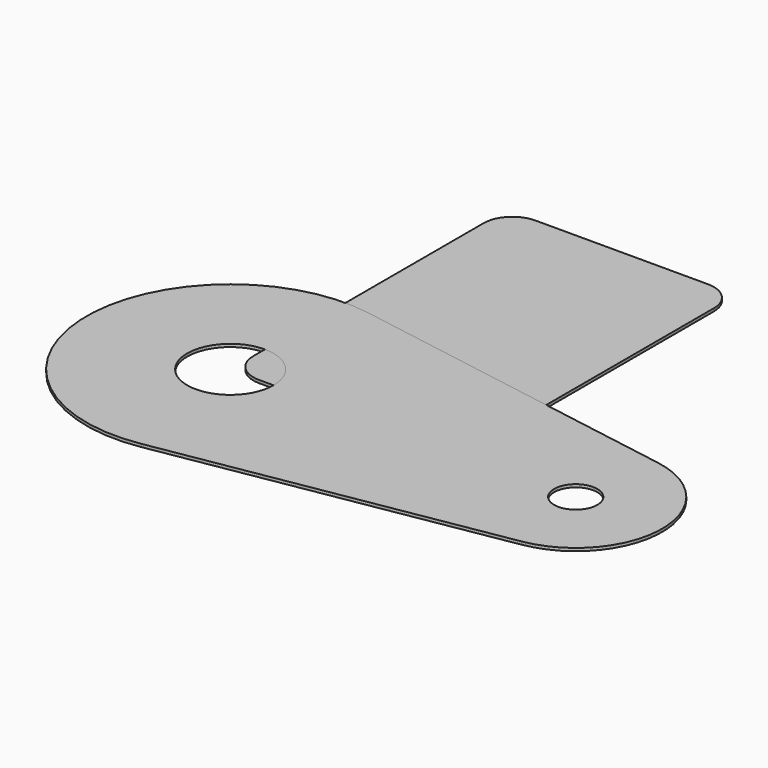
from build123d import *

# Parameters (mm, degrees)
F1_DEPTH = 1
F2_R     = 15
F2_R_2   = 7.5
F3_DEPTH = 1


with BuildPart() as f1:
    # F0 (on Top) → F1 (new body)
    with BuildSketch(Plane.XY):
        with BuildLine():
            ThreePointArc((0, 10), (2.928932, 2.928932), (10, 0))
            Line((10, 0), (70, 0))
            ThreePointArc((70, 0), (77.071068, 2.928932), (80, 10))
            Line((80, 10), (80, 110))
            ThreePointArc((80, 110), (77.071068, 117.071068), (70, 120))
            Line((70, 120), (10, 120))
            ThreePointArc((10, 120), (2.928932, 117.071068), (0, 110))
            Line((0, 110), (0, 10))
        make_face()
    extrude(amount=F1_DEPTH)


with BuildPart() as f3:
    # F2 (on Top) → F3 (new body)
    with BuildSketch(Plane.XY):
        with BuildLine():
            Line((125, 29.580399), (8.333333, 49.300665))
            ThreePointArc((8.333333, 49.300665), (-50, 0), (8.333333, -49.300665))
            Line((8.333333, -49.300665), (125, -29.580399))
            ThreePointArc((125, -29.580399), (150, 0), (125, 29.580399))
        make_face()
        Circle(F2_R, mode=Mode.SUBTRACT)
        with Locations((120, 0)):
            Circle(F2_R_2, mode=Mode.SUBTRACT)
    extrude(amount=F3_DEPTH)


solid = Compound([f1.part, f3.part])
